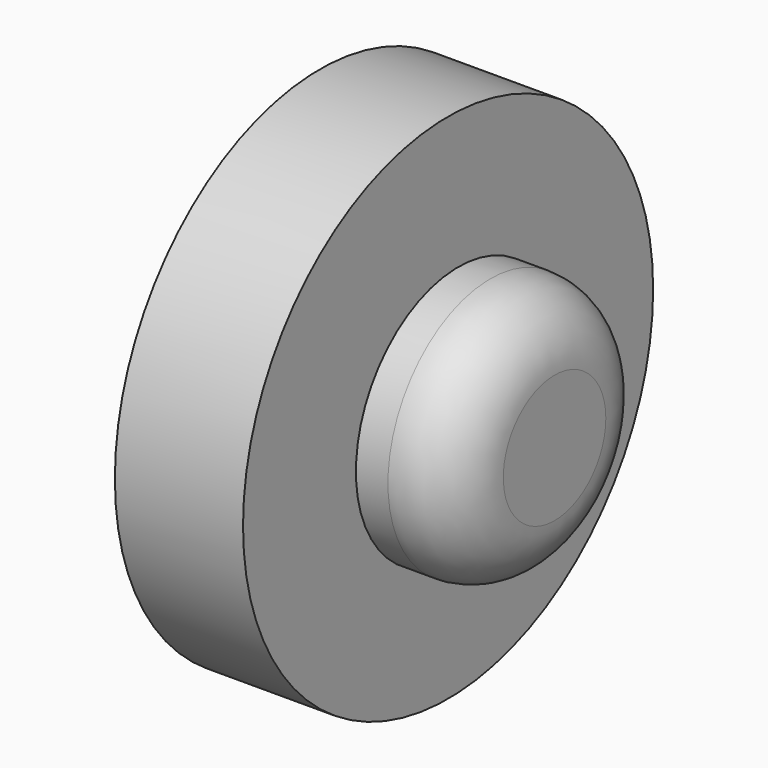
from build123d import *

# Parameters (mm, degrees)
F0_R     = 50.8
F1_DEPTH = 25.4
F3_D     = 6.35
F4_R     = 25.4
F5_DEPTH = 19.05
F6_R     = 12.7


with BuildPart() as f1:
    # F0 (on Right) → F1 (new body)
    with BuildSketch(Plane.YZ):
        Circle(F0_R)
    extrude(amount=F1_DEPTH)

    # F3 (through all)
    with Locations(Plane.YZ.offset(25.4)):
        with Locations((0, 0)):
            Hole(F3_D / 2)

    # F4 (on face) → F5 (join)
    with BuildSketch(Plane.YZ.offset(25.4)):
        with Locations((2.568165, -1.866857)):
            Circle(F4_R)
    extrude(amount=F5_DEPTH)

    # F6
    f6_edges = [f1.edges().sort_by_distance(p)[0] for p in [
        (44.45, -22.831835, -1.866857),
    ]]
    fillet(f6_edges, radius=F6_R)


solid = f1.part
